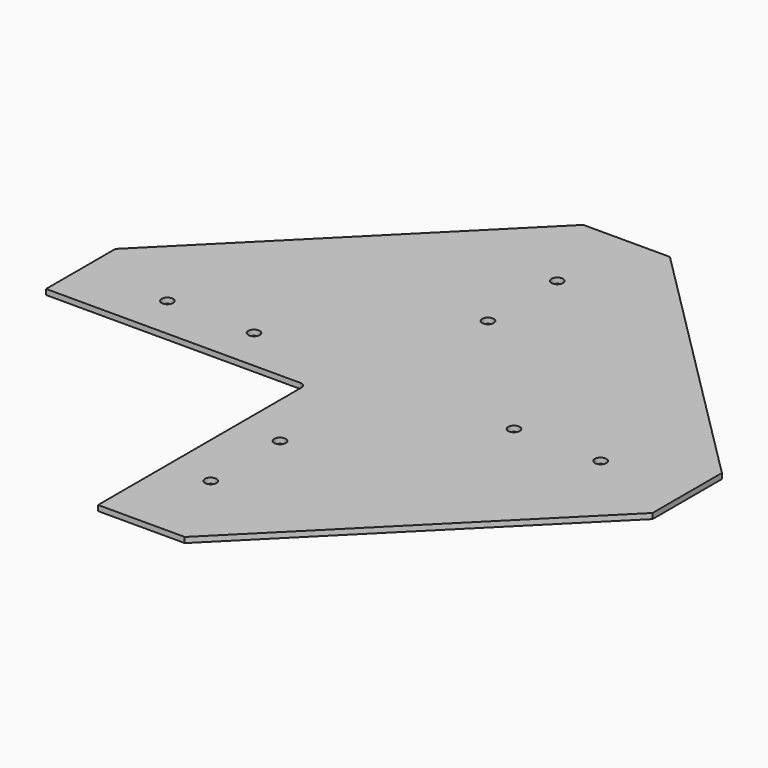
from build123d import *

# Parameters (mm, degrees)
F1_DEPTH = 3.175
F2_R     = 6.35
F5_D     = 13.49248


with BuildPart() as f1:
    # F0 (on Top) → F1 (new body, symmetric)
    with BuildSketch(Plane.XY):
        Polygon((-355.6, 50.8), (-355.6, -50.8), (-50.8, -50.8), (-50.8, -355.6), (50.8, -355.6), (355.6, -50.8), (355.6, 50.8), (50.8, 355.6), (-50.8, 355.6), align=None)
    extrude(amount=F1_DEPTH, both=True)

    # F2
    f2_edges = [f1.edges().sort_by_distance(p)[0] for p in [
        (-50.8, -50.8, 0),
    ]]
    fillet(f2_edges, radius=F2_R)

    # F5 (through all)
    with Locations(Plane.XY.offset(3.175)):
        with Locations((0, -254), (0, -152.4), (152.4, 0), (254, 0), (0, 152.4), (0, 254), (-152.4, 0), (-254, 0)):
            Hole(F5_D / 2)


solid = f1.part
